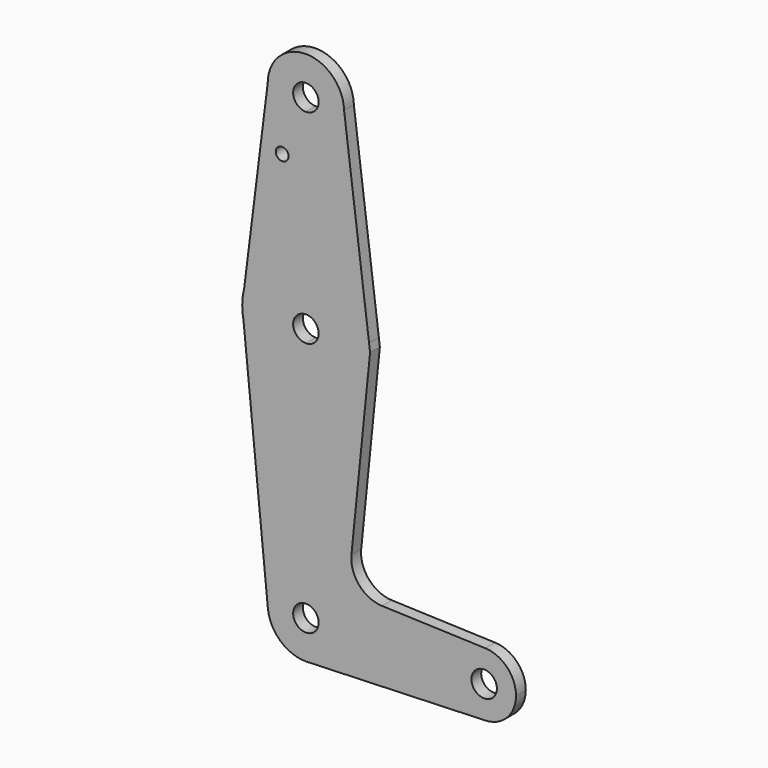
from build123d import *

# Parameters (mm, degrees)
F0_R     = 1.5875
F1_DEPTH = 3.048


with BuildPart() as f1:
    # F0 (on Front) → F1 (new body)
    with BuildSketch(Plane.XZ):
        with BuildLine():
            ThreePointArc((-9.5249999999, 55.8800384466), (-6.7352052365, 49.1448223198), (0, 46.3550012648))
            ThreePointArc((0, 46.3550012648), (6.7351920908, 49.144809174), (9.525, 55.8800012648))
            ThreePointArc((9.525, 55.8800012648), (9.5241424, 56.0078157575), (9.5215697544, 56.1356072342))
            ThreePointArc((9.5215697544, 56.1356072342), (-0.1277959034, 65.4041439143), (-9.5249999999, 55.8800384466))
        make_face()
        with BuildLine():
            ThreePointArc((3.175, 55.8800012648), (2.2450640303, 53.6349372345), (0, 52.7050012648))
            ThreePointArc((0, 52.7050012648), (-2.2450640303, 58.1250652951), (3.175, 55.8800012648))
        make_face(mode=Mode.SUBTRACT)
        with BuildLine():
            ThreePointArc((9.525, 55.8800012648), (6.7351920908, 49.144809174), (0, 46.3550012648))
            Line((0, 46.3550012648), (0, 41.6052012648))
            Line((0, 41.6052012648), (0, 20.9550012648))
            ThreePointArc((0, 20.9550012648), (10.4947680563, 16.9911501786), (15.7486293081, 7.0790760296))
            Line((15.7486293081, 7.0790760296), (9.5215697544, 56.1356072342))
            ThreePointArc((9.5215697544, 56.1356072342), (9.5241424, 56.0078157575), (9.525, 55.8800012648))
        make_face()
        with BuildLine():
            Line((0, 41.6052012648), (0, 46.3550012648))
            ThreePointArc((0, 46.3550012648), (-6.7352052365, 49.1448223198), (-9.5249999999, 55.8800384466))
            Line((-9.525, 55.8800384466), (-15.3865321199, 8.9877185427))
            ThreePointArc((-15.3865321199, 8.9877185427), (-9.7462970715, 17.6109756241), (0, 20.9550012648))
            Line((0, 20.9550012648), (0, 41.6052012648))
        make_face()
        with Locations((-5.9128855355, 41.5241755545)):
            Circle(F0_R, mode=Mode.SUBTRACT)
        with BuildLine():
            ThreePointArc((15.7486293081, 7.0790760296), (10.4947680563, 16.9911501786), (0, 20.9550012648))
            Line((0, 20.9550012648), (0, 8.2550012648))
            ThreePointArc((0, 8.2550012648), (2.2450640303, 7.3250652951), (3.175, 5.0800012648))
            ThreePointArc((3.175, 5.0800012648), (2.2450640303, 2.8349372345), (0, 1.9050012648))
            Line((0, 1.9050012648), (0, -10.7949987352))
            ThreePointArc((0, -10.7949987352), (11.2253201513, -6.1453188865), (15.875, 5.0800012648))
            ThreePointArc((15.875, 5.0800012648), (15.8433758282, 6.0815337739), (15.7486293081, 7.0790760296))
        make_face()
        with BuildLine():
            Line((0, 8.2550012648), (0, 20.9550012648))
            ThreePointArc((0, 20.9550012648), (-9.7462970715, 17.6109756241), (-15.3865321199, 8.9877185427))
            Line((-15.3865321199, 8.9877185427), (-15.875, 5.0799702562))
            Line((-15.875, 5.0799702562), (-15.5652219222, 1.9591854239))
            ThreePointArc((-15.5652219222, 1.9591854239), (-10.0616269441, -7.1992205443), (0, -10.7949987352))
            Line((0, -10.7949987352), (0, 1.9050012648))
            ThreePointArc((0, 1.9050012648), (-3.175, 5.0800012648), (0, 8.2550012648))
        make_face()
        with BuildLine():
            Line((-15.875, 5.0799702562), (-15.3865321199, 8.9877185427))
            ThreePointArc((-15.3865321199, 8.9877185427), (-15.7524116182, 7.0490500738), (-15.875, 5.0799702562))
        make_face()
        with BuildLine():
            Line((16.0023886017, 5.0799702562), (15.7486293081, 7.0790760296))
            ThreePointArc((15.7486293081, 7.0790760296), (15.8433758282, 6.0815337739), (15.875, 5.0800012648))
            ThreePointArc((15.875, 5.0800012648), (11.2253201513, -6.1453188865), (0, -10.7949987352))
            Line((0, -10.7949987352), (0, -48.8949987352))
            ThreePointArc((0, -48.8949987352), (6.7351920908, -51.6848066444), (9.525, -58.4199987352))
            Line((9.525, -58.4199987352), (36.5125, -58.4199987352))
            ThreePointArc((36.5125, -58.4199987352), (38.9380895153, -52.7083659513), (44.7324052746, -50.4875241206))
            Line((44.7324052746, -50.4875241206), (18.9819240607, -49.5707771948))
            ThreePointArc((18.9819240607, -49.5707771948), (13.2728971918, -46.8508384884), (11.3550131168, -40.8248302714))
            Line((11.3550131168, -40.8248302714), (16.0023886017, 5.0799702562))
        make_face()
        with BuildLine():
            Line((-15.5652219222, 1.9591854239), (-15.875, 5.0799702562))
            ThreePointArc((-15.875, 5.0799702562), (-15.7973641194, 3.5119094694), (-15.5652219222, 1.9591854239))
        make_face()
        with BuildLine():
            ThreePointArc((0, -10.7949987352), (-10.0616269441, -7.1992205443), (-15.5652219222, 1.9591854239))
            Line((-15.5652219222, 1.9591854239), (-9.4784184716, -59.3608538125))
            ThreePointArc((-9.4784184716, -59.3608538125), (-7.060002465, -52.0260961558), (0, -48.8949987352))
            Line((0, -48.8949987352), (0, -10.7949987352))
        make_face()
        with BuildLine():
            ThreePointArc((0, -48.8949987352), (-7.060002465, -52.0260961558), (-9.4784184716, -59.3608538125))
            ThreePointArc((-9.4784184716, -59.3608538125), (-6.3939025793, -65.4800012002), (0, -67.9449987352))
            Line((0, -67.9449987352), (0.6773435479, -67.9208845212))
            ThreePointArc((0.6773435479, -67.9208845212), (6.9705567315, -64.9112978234), (9.525, -58.4199987352))
            Line((9.525, -58.4199987352), (3.175, -58.4199987352))
            ThreePointArc((3.175, -58.4199987352), (-2.2450640303, -60.6650627655), (0, -55.2449987352))
            Line((0, -55.2449987352), (0, -48.8949987352))
        make_face()
        with BuildLine():
            Line((0.6773435479, -67.9208845212), (0, -67.9449987352))
            ThreePointArc((0, -67.9449987352), (0.3388863295, -67.9389682727), (0.6773435479, -67.9208845212))
        make_face()
        with BuildLine():
            Line((36.5125, -58.4199987352), (9.525, -58.4199987352))
            ThreePointArc((9.525, -58.4199987352), (6.9705567315, -64.9112978234), (0.6773435479, -67.9208845212))
            Line((0.6773435479, -67.9208845212), (44.7324052746, -66.3524733498))
            ThreePointArc((44.7324052746, -66.3524733498), (38.9380895153, -64.1316315191), (36.5125, -58.4199987352))
        make_face()
        with BuildLine():
            ThreePointArc((52.3875, -58.4199987352), (50.1616327839, -52.9080882505), (44.7324052746, -50.4875241206))
            ThreePointArc((44.7324052746, -50.4875241206), (38.9380895153, -52.7083659513), (36.5125, -58.4199987352))
            ThreePointArc((36.5125, -58.4199987352), (38.9380895153, -64.1316315191), (44.7324052746, -66.3524733498))
            ThreePointArc((44.7324052746, -66.3524733498), (50.1616327839, -63.9319092199), (52.3875, -58.4199987352))
        make_face()
        with BuildLine():
            ThreePointArc((47.625, -58.4199987352), (44.45, -61.5949987352), (41.275, -58.4199987352))
            ThreePointArc((41.275, -58.4199987352), (44.45, -55.2449987352), (47.625, -58.4199987352))
        make_face(mode=Mode.SUBTRACT)
        with BuildLine():
            ThreePointArc((9.525, -58.4199987352), (6.7351920908, -51.6848066444), (0, -48.8949987352))
            Line((0, -48.8949987352), (0, -55.2449987352))
            ThreePointArc((0, -55.2449987352), (2.2450640303, -56.1749347049), (3.175, -58.4199987352))
            Line((3.175, -58.4199987352), (9.525, -58.4199987352))
        make_face()
    extrude(amount=F1_DEPTH)


solid = f1.part
